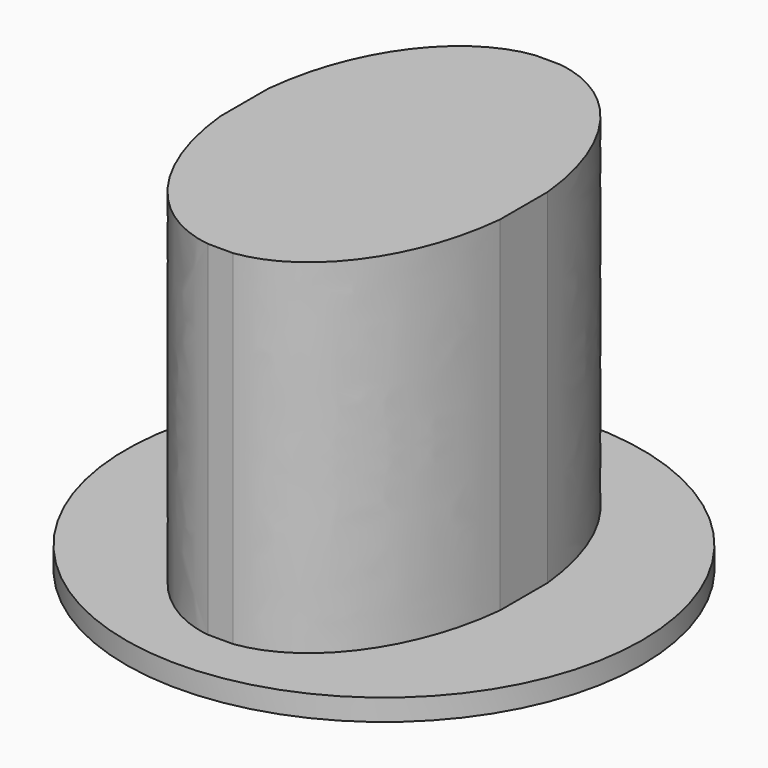
from build123d import *

# Parameters (mm, degrees)
F1_DEPTH = 8
F2_R     = 6
F2_R_2   = 1.25
F3_DEPTH = 0.5
F4_DEPTH = 7


with BuildPart() as f1:
    # F0 (on Top) → F1 (new body)
    with BuildSketch(Plane.XY):
        with BuildLine():
            add(Edge.make_bspline(
                [(0, 4.0535001257), (0.3782830439, 0.3340592761), (2.958103263, 0)],
                knots=[4.8589648787, 4.8589648787, 4.8589648787, 6.1942166845, 6.1942166845, 6.1942166845], degree=2, weights=[1, 0.7852937366, 1]))
            Line((2.958103263, 0), (3.541896737, 0))
            add(Edge.make_bspline(
                [(3.541896737, 0), (6.1217169561, 0.3340592761), (6.5, 4.0535001257)],
                knots=[0.0889686226, 0.0889686226, 0.0889686226, 1.4242204285, 1.4242204285, 1.4242204285], degree=2, weights=[1, 0.7852937366, 1]))
            Line((6.5, 4.0535001257), (6.5, 5.4464998743))
            add(Edge.make_bspline(
                [(6.5, 5.4464998743), (6.1217169561, 9.1659407239), (3.541896737, 9.5)],
                knots=[1.7173722251, 1.7173722251, 1.7173722251, 3.0526240309, 3.0526240309, 3.0526240309], degree=2, weights=[1, 0.7852937366, 1]))
            Line((3.541896737, 9.5), (2.958103263, 9.5))
            add(Edge.make_bspline(
                [(2.958103263, 9.5), (0.3782830439, 9.1659407239), (0, 5.4464998743)],
                knots=[3.2305612762, 3.2305612762, 3.2305612762, 4.5658130821, 4.5658130821, 4.5658130821], degree=2, weights=[1, 0.7852937366, 1]))
            Line((0, 5.4464998743), (0, 4.0535001257))
        make_face()
    extrude(amount=F1_DEPTH)

    # F2 (on face) → F4 (cut)
    with BuildSketch(Plane(origin=(0, 0, 0), x_dir=(1, 0, 0), z_dir=(0, 0, -1))):
        with Locations((3.25, -4.75)):
            Circle(F2_R_2)
    extrude(amount=-F4_DEPTH, mode=Mode.SUBTRACT)


with BuildPart() as f3:
    # F2 (on face) → F3 (new body)
    with BuildSketch(Plane(origin=(0, 0, 0), x_dir=(1, 0, 0), z_dir=(0, 0, -1))):
        with Locations((3.25, -4.75)):
            Circle(F2_R)
        with BuildLine():
            Line((0, -5.4464998743), (0, -4.0535001257))
            add(Edge.make_bspline(
                [(0, -4.0535001257), (0.3782830439, -0.3340592761), (2.958103263, 0)],
                knots=[4.8589648787, 4.8589648787, 4.8589648787, 6.1942166845, 6.1942166845, 6.1942166845], degree=2, weights=[1, 0.7852937366, 1]))
            Line((2.958103263, 0), (3.541896737, 0))
            add(Edge.make_bspline(
                [(3.541896737, 0), (6.1217169561, -0.3340592761), (6.5, -4.0535001257)],
                knots=[0.0889686226, 0.0889686226, 0.0889686226, 1.4242204285, 1.4242204285, 1.4242204285], degree=2, weights=[1, 0.7852937366, 1]))
            Line((6.5, -4.0535001257), (6.5, -5.4464998743))
            add(Edge.make_bspline(
                [(6.5, -5.4464998743), (6.1217169561, -9.1659407239), (3.541896737, -9.5)],
                knots=[1.7173722251, 1.7173722251, 1.7173722251, 3.0526240309, 3.0526240309, 3.0526240309], degree=2, weights=[1, 0.7852937366, 1]))
            Line((3.541896737, -9.5), (2.958103263, -9.5))
            add(Edge.make_bspline(
                [(2.958103263, -9.5), (0.3782830439, -9.1659407239), (0, -5.4464998743)],
                knots=[3.2305612762, 3.2305612762, 3.2305612762, 4.5658130821, 4.5658130821, 4.5658130821], degree=2, weights=[1, 0.7852937366, 1]))
        make_face(mode=Mode.SUBTRACT)
        with BuildLine():
            add(Edge.make_bspline(
                [(0, -4.0535001257), (0.3782830439, -0.3340592761), (2.958103263, 0)],
                knots=[4.8589648787, 4.8589648787, 4.8589648787, 6.1942166845, 6.1942166845, 6.1942166845], degree=2, weights=[1, 0.7852937366, 1]))
            Line((0, -4.0535001257), (0, -5.4464998743))
            add(Edge.make_bspline(
                [(2.958103263, -9.5), (0.3782830439, -9.1659407239), (0, -5.4464998743)],
                knots=[3.2305612762, 3.2305612762, 3.2305612762, 4.5658130821, 4.5658130821, 4.5658130821], degree=2, weights=[1, 0.7852937366, 1]))
            Line((2.958103263, -9.5), (3.541896737, -9.5))
            add(Edge.make_bspline(
                [(6.5, -5.4464998743), (6.1217169561, -9.1659407239), (3.541896737, -9.5)],
                knots=[1.7173722251, 1.7173722251, 1.7173722251, 3.0526240309, 3.0526240309, 3.0526240309], degree=2, weights=[1, 0.7852937366, 1]))
            Line((6.5, -5.4464998743), (6.5, -4.0535001257))
            add(Edge.make_bspline(
                [(3.541896737, 0), (6.1217169561, -0.3340592761), (6.5, -4.0535001257)],
                knots=[0.0889686226, 0.0889686226, 0.0889686226, 1.4242204285, 1.4242204285, 1.4242204285], degree=2, weights=[1, 0.7852937366, 1]))
            Line((3.541896737, 0), (2.958103263, 0))
        make_face()
        with Locations((3.25, -4.75)):
            Circle(F2_R_2, mode=Mode.SUBTRACT)
    extrude(amount=F3_DEPTH)


solid = Compound([f1.part, f3.part])
